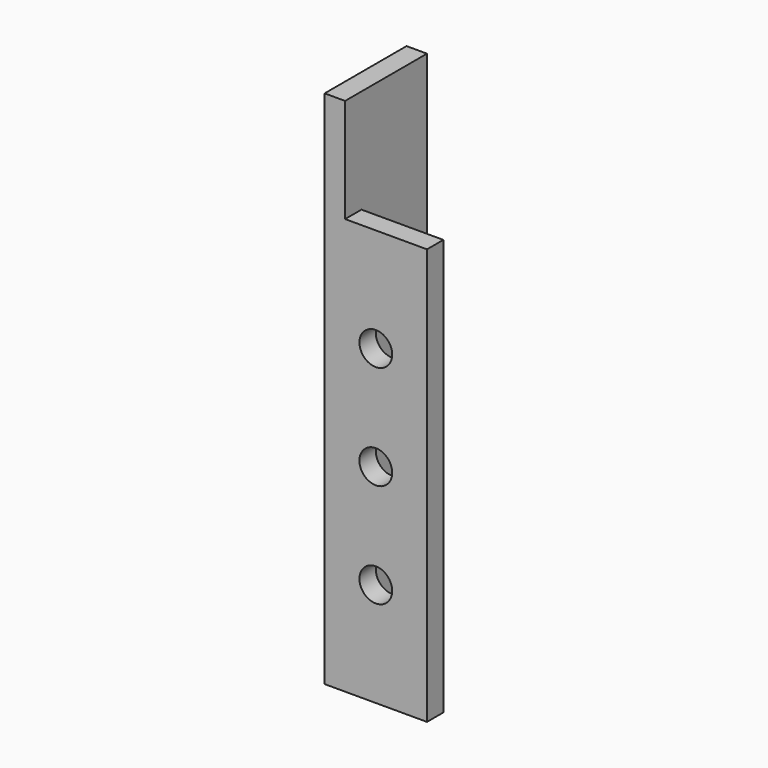
from build123d import *

# Parameters (mm, degrees)
F1_DEPTH = 127
F2_R     = 4
F2_W     = 20
F2_H     = 25.4
F3_DEPTH = 25


with BuildPart() as f1:
    # F0 (on Top) → F1 (new body)
    with BuildSketch(Plane.XY):
        Polygon((-13.266638, 11.597826), (-18.266638, 11.597826), (-18.266638, -13.402174), (6.733362, -13.402174), (6.733362, -8.402174), (-13.266638, -8.402174), align=None)
    extrude(amount=F1_DEPTH)

    # F2 (on face) → F3 (cut)
    with BuildSketch(Plane.XZ.offset(13.402174)):
        with Locations((-5.766638, 76.2)):
            Circle(F2_R)
        with Locations((-5.766638, 50.8)):
            Circle(F2_R)
        with Locations((-5.766638, 25.4)):
            Circle(F2_R)
        with Locations((-3.266638, 114.3)):
            Rectangle(F2_W, F2_H)
    extrude(amount=-F3_DEPTH, mode=Mode.SUBTRACT)


solid = f1.part
